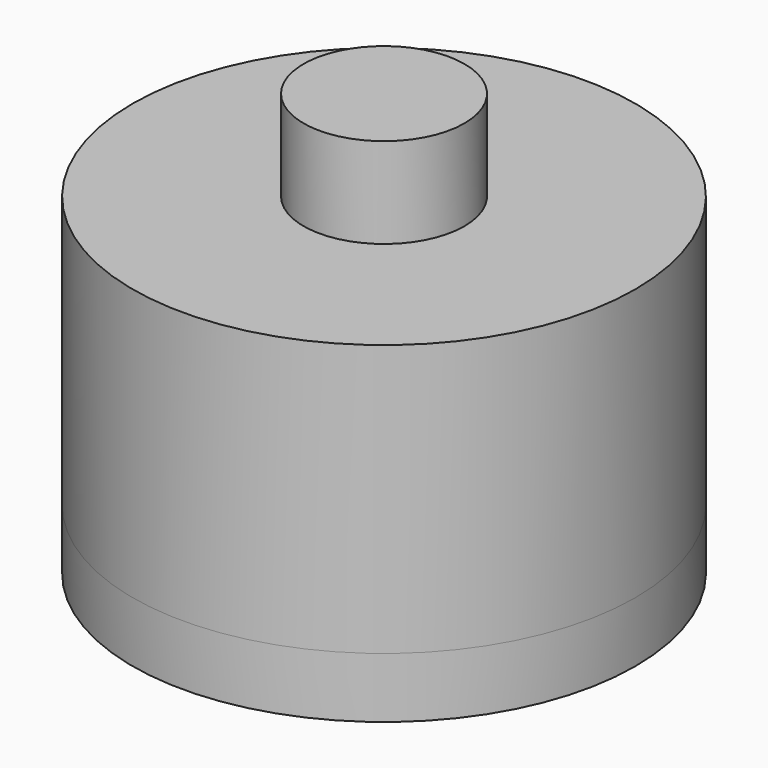
from build123d import *

# Parameters (mm, degrees)
F0_R     = 8.5
F0_R_2   = 4
F1_DEPTH = 1.5
F2_DEPTH = 6
F0_R_3   = 12.5
F0_R_4   = 11.15
F3_DEPTH = 1.5
F4_DEPTH = 12
F5_R     = 12.5
F6_DEPTH = 3


with BuildPart() as f1:
    # F0 (on Top) → F1 (new body)
    with BuildSketch(Plane.XY):
        Circle(F0_R)
        Circle(F0_R_2, mode=Mode.SUBTRACT)
    extrude(amount=F1_DEPTH)

    # F0 (on Top) → F2 (join)
    with BuildSketch(Plane.XY):
        Circle(F0_R_2)
    extrude(amount=F2_DEPTH)

    # F0 (on Top) → F3 (join)
    with BuildSketch(Plane.XY):
        Circle(F0_R_3)
        Circle(F0_R_4, mode=Mode.SUBTRACT)
        Circle(F0_R_4)
        Circle(F0_R, mode=Mode.SUBTRACT)
    extrude(amount=F3_DEPTH)

    # F0 (on Top) → F4 (join)
    with BuildSketch(Plane.XY):
        Circle(F0_R_3)
        Circle(F0_R_4, mode=Mode.SUBTRACT)
    extrude(amount=-F4_DEPTH)

    # F5 (on face) → F6 (join)
    with BuildSketch(Plane(origin=(0, 0, -12), x_dir=(1, 0, 0), z_dir=(0, 0, -1))):
        Circle(F5_R)
    extrude(amount=F6_DEPTH)


solid = f1.part
